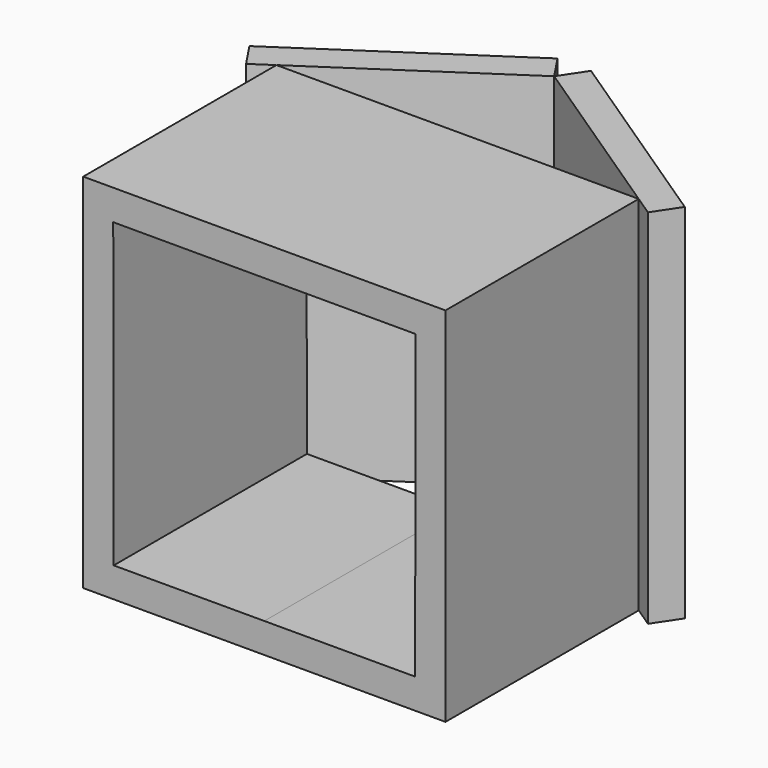
from build123d import *

# Parameters (mm, degrees)
F1_DEPTH = 200
F3_DEPTH = 300


with BuildPart() as f1:
    # F0 (on Front) → F1 (new body)
    with BuildSketch(Plane.XZ):
        Polygon((225.403458, 249.761116), (250.162269, 275), (100.162269, 275), (-49.837731, 275), (-24.989234, 249.84941), align=None)
        Polygon((225.206415, 125), (250.162269, 125), (250.162269, 275), (225.403458, 249.761116), align=None)
        Polygon((225.00875, -0.154467), (250.162269, -25), (250.162269, 125), (225.206415, 125), align=None)
        Polygon((100.162269, -25), (250.162269, -25), (225.00875, -0.154467), (100.162269, -0.199331), align=None)
        Polygon((-49.837731, -25), (100.162269, -25), (100.162269, -0.199331), (-24.595929, -0.244163), align=None)
        Polygon((-49.837731, 125), (-49.837731, -25), (-24.595929, -0.244163), (-24.989234, 249.84941), (-49.837731, 275), align=None)
    extrude(amount=F1_DEPTH)


with BuildPart() as f3:
    # F2 (on face) → F3 (new body)
    with BuildSketch(Plane.XY.offset(275)):
        Polygon((-49.837731, 0), (100.162269, 100), (86.294764, 120.801257), (-80.115295, 9.861218), (-66.24779, -10.940039), align=None)
        Polygon((114.029774, 120.801257), (100.162269, 100), (250.162269, 0), (266.572328, -10.940039), (280.439833, 9.861218), align=None)
    extrude(amount=-F3_DEPTH)


solid = Compound([f1.part, f3.part])
